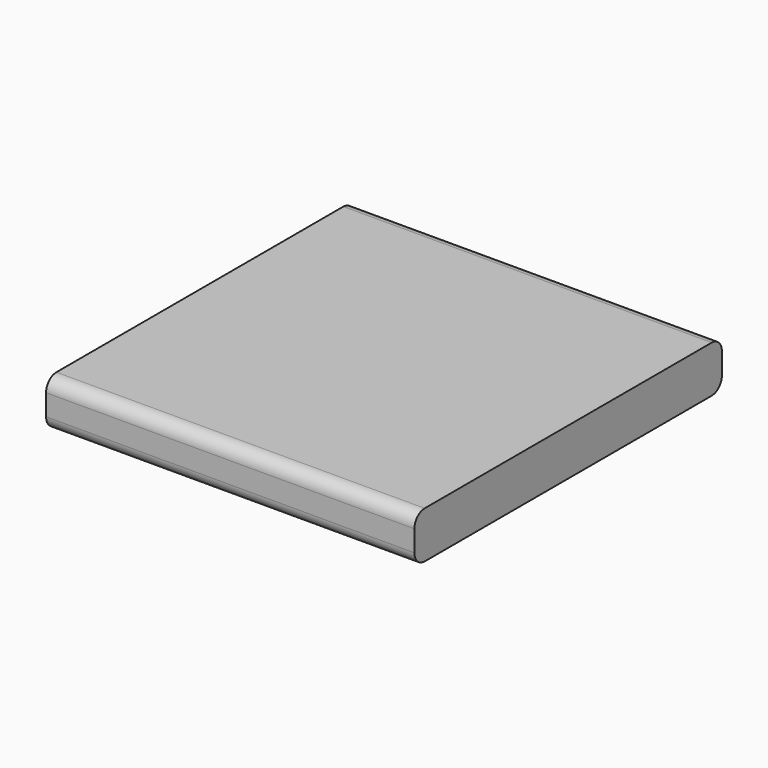
from build123d import *

# Parameters (mm, degrees)
SKETCH011_W    = 11.5
SKETCH011_H    = 12
PAD008_DEPTH   = 1.46
FILLET003_R    = 0.4
THICKNESS003_T = -0.2


with BuildPart() as part:
    # Sketch011 (on Face1 of ReferenceLinearPattern004004) → Pad008 (new body)
    with BuildSketch(Plane.XY.offset(1)):
        with Locations((7.25, 16.7)):
            Rectangle(SKETCH011_W, SKETCH011_H)
    extrude(amount=PAD008_DEPTH)

    # Fillet003
    fillet003_edges = [part.edges().sort_by_distance(p)[0] for p in [
        (7.25, 10.7, 2.46),
        (7.25, 10.7, 1),
        (7.25, 22.7, 2.46),
        (7.25, 22.7, 1),
    ]]
    fillet(fillet003_edges, radius=FILLET003_R)

    # Thickness003
    thickness003_openings = [part.faces().sort_by_distance(p)[0] for p in [
        (1.5, 16.7, 1.73),
    ]]
    offset(amount=THICKNESS003_T, openings=thickness003_openings)


solid = part.part
